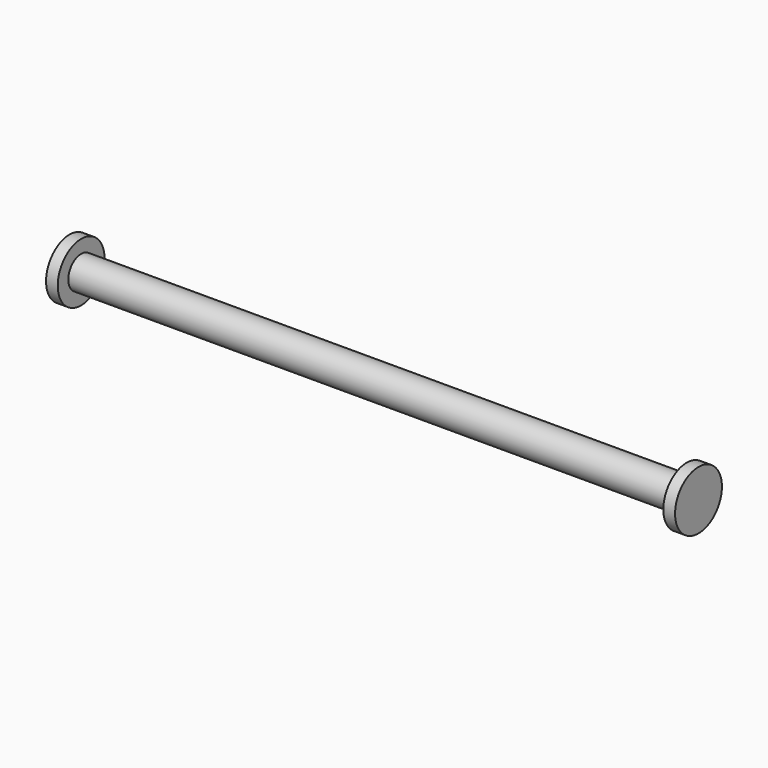
from build123d import *

# Parameters (mm, degrees)
F0_R     = 2.75
F1_DEPTH = 103.38
F2_R     = 5
F3_DEPTH = 2
F5_R     = 5
F6_DEPTH = 2


with BuildPart() as f1:
    # F0 (on Right) → F1 (new body)
    with BuildSketch(Plane.YZ):
        Circle(F0_R)
    extrude(amount=F1_DEPTH)

    # F2 (on Right) → F3 (join)
    with BuildSketch(Plane.YZ):
        Circle(F2_R)
    extrude(amount=-F3_DEPTH)

    # F5 (on offset) → F6 (join)
    with BuildSketch(Plane.YZ.offset(103.38)):
        Circle(F5_R)
    extrude(amount=F6_DEPTH)


solid = f1.part
